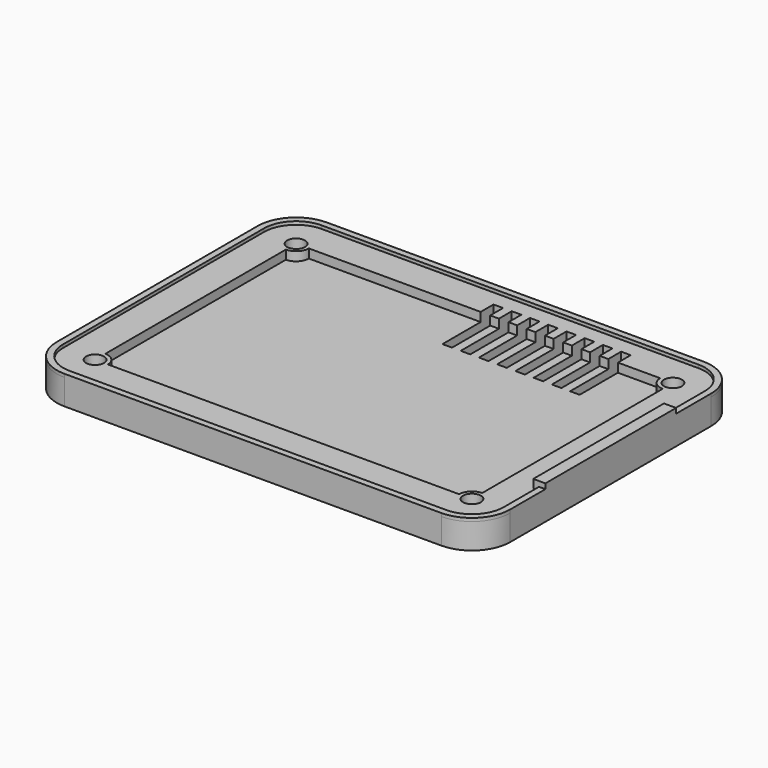
from build123d import *

# Parameters (mm, degrees)
SKETCH_W                = 90.24
SKETCH_H                = 65.24
SKETCH_R                = 1.778
PAD_DEPTH               = 5.08
POCKET_DEPTH            = 1.778
POCKET_MIRRORED_2_DEPTH = 1.778
SKETCH002_R             = 3.175
POCKET001_DEPTH         = 2.286
SKETCH003_W             = 1.905
SKETCH003_H             = 12.7
POCKET002_DEPTH         = 5.081
LINEARPATTERN_COUNT     = 8
LINEARPATTERN_PITCH     = 3.628571
FILLET_R                = 7.62
PAD001_DEPTH            = 0.635
SKETCH020_W             = 2.413
SKETCH020_H             = 32.512
PAD005_DEPTH            = 1.651


with BuildPart() as part:
    # Sketch → Pad (new body)
    with BuildSketch(Plane.XY):
        Rectangle(SKETCH_W, SKETCH_H)
        with Locations((37.5, 25)):
            Circle(SKETCH_R, mode=Mode.SUBTRACT)
        with Locations((-37.5, 25)):
            Circle(SKETCH_R, mode=Mode.SUBTRACT)
        with Locations((-37.5, -25)):
            Circle(SKETCH_R, mode=Mode.SUBTRACT)
        with Locations((37.5, -25)):
            Circle(SKETCH_R, mode=Mode.SUBTRACT)
    extrude(amount=PAD_DEPTH)

    # Sketch001 (on Face10 of Pad) → Pocket (cut)
    with BuildSketch(Plane.XY.offset(5.08)):
        with BuildLine():
            ThreePointArc((-37.5, 22.46), (-35.703949, 23.203949), (-34.96, 25))
            Line((-34.96, 25), (0, 25))
            Line((0, 0), (0, 25))
            Line((0, 0), (-37.5, 0))
            Line((-37.5, 0), (-37.5, 22.46))
        make_face()
    pocket = extrude(amount=-POCKET_DEPTH, mode=Mode.SUBTRACT)

    # Sketch001 Mirrored 2 → Pocket Mirrored 2 (cut)
    with BuildSketch(Plane(origin=(0, 0, 5.08), x_dir=(-1, 0, 0), z_dir=(0, 0, -1))):
        with BuildLine():
            ThreePointArc((-37.5, 22.46), (-35.703949, 23.203949), (-34.96, 25))
            Line((-34.96, 25), (0, 25))
            Line((0, 0), (0, 25))
            Line((0, 0), (-37.5, 0))
            Line((-37.5, 0), (-37.5, 22.46))
        make_face()
    pocket_mirrored_2 = extrude(amount=POCKET_MIRRORED_2_DEPTH, mode=Mode.SUBTRACT)

    # Mirrored001: Pocket, Pocket Mirrored 2 across Sketch001 H_Axis
    add(pocket.mirror(Plane(origin=(0, 0, 5.08), x_dir=(0, 0, 1), z_dir=(0, 1, 0))), mode=Mode.SUBTRACT)
    add(pocket_mirrored_2.mirror(Plane(origin=(0, 0, 5.08), x_dir=(0, 0, 1), z_dir=(0, 1, 0))), mode=Mode.SUBTRACT)

    # Sketch002 (on Face4 of MultiTransform) → Pocket001 (cut)
    with BuildSketch(Plane(origin=(0, 0, 0), x_dir=(1, 0, 0), z_dir=(0, 0, -1))):
        with Locations((37.5, 25)):
            Circle(SKETCH002_R)
        with Locations((-37.5, 25)):
            Circle(SKETCH002_R)
        with Locations((-37.5, -25)):
            Circle(SKETCH002_R)
        with Locations((37.5, -25)):
            Circle(SKETCH002_R)
    extrude(amount=-POCKET001_DEPTH, mode=Mode.SUBTRACT)

    # Sketch003 (on Face5 of Pocket001) → Pocket002 (cut, through all)
    with BuildSketch(Plane.XY.offset(5.08)):
        with Locations((25.5905, 21.844)):
            Rectangle(SKETCH003_W, SKETCH003_H)
    pocket002 = extrude(amount=-POCKET002_DEPTH, mode=Mode.SUBTRACT)

    # LinearPattern: Pocket002 ×8
    with Locations(*[(-i * LINEARPATTERN_PITCH, 0, 0) for i in range(1, LINEARPATTERN_COUNT)]):
        add(pocket002, mode=Mode.SUBTRACT)

    # Fillet
    fillet_edges = [part.edges().sort_by_distance(p)[0] for p in [
        (45.12, -32.62, 2.54),
        (-45.12, -32.62, 2.54),
        (-45.12, 32.62, 2.54),
        (45.12, 32.62, 2.54),
    ]]
    fillet(fillet_edges, radius=FILLET_R)

    # Sketch004 (on Face5 of Fillet) → Pad001 (join)
    with BuildSketch(Plane.XY.offset(5.08)):
        with BuildLine():
            Line((-37.5, -32.62), (37.5, -32.62))
            ThreePointArc((37.5, -32.62), (42.888154, -30.388154), (45.12, -25))
            Line((45.12, -25), (45.12, 25))
            ThreePointArc((45.12, 25), (42.888154, 30.388154), (37.5, 32.62))
            Line((37.5, 32.62), (-37.5, 32.62))
            ThreePointArc((-37.5, 32.62), (-42.888154, 30.388154), (-45.12, 25))
            Line((-45.12, 25), (-45.12, -25))
            ThreePointArc((-45.12, -25), (-42.888154, -30.388154), (-37.5, -32.62))
        make_face()
        with BuildLine():
            Line((-37.5, -31.35), (37.5, -31.35))
            ThreePointArc((37.5, -31.35), (41.990128, -29.490128), (43.85, -25))
            Line((43.85, -25), (43.85, 25))
            ThreePointArc((43.85, 25), (41.990128, 29.490128), (37.5, 31.35))
            Line((37.5, 31.35), (-37.5, 31.35))
            ThreePointArc((-37.5, 31.35), (-41.990128, 29.490128), (-43.85, 25))
            Line((-43.85, 25), (-43.85, -25))
            ThreePointArc((-43.85, -25), (-41.990128, -29.490128), (-37.5, -31.35))
        make_face(mode=Mode.SUBTRACT)
    extrude(amount=PAD001_DEPTH)

    # Sketch020 (on Face58 of Pad001) → Pad005 (join)
    with BuildSketch(Plane.XY.offset(5.08)):
        with Locations((43.9135, 0)):
            Rectangle(SKETCH020_W, SKETCH020_H)
    extrude(amount=PAD005_DEPTH)


with BuildPart() as part_1:
    # Body placement: moved
    add(part.part.moved(Location((0, 0, -5.207))))


solid = part_1.part
